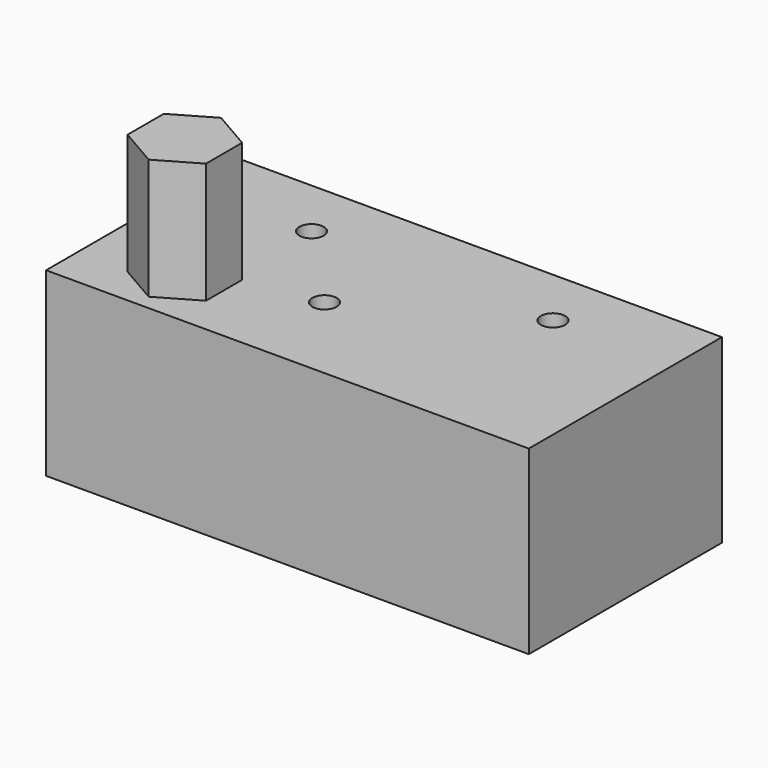
from build123d import *

# Parameters (mm, degrees)
F0_W     = 101.6
F0_H     = 50.8
F1_DEPTH = 38.1
F3_D     = 5.1054
F3_DEPTH = 16.51
F3_TIP   = 1.5338169022
F5_DEPTH = 25.4


with BuildPart() as f1:
    # F0 (on Top) → F1 (new body)
    with BuildSketch(Plane.XY):
        with Locations((50.8, -25.4)):
            Rectangle(F0_W, F0_H)
    extrude(amount=F1_DEPTH)

    # F3
    with Locations(Plane.XY.offset(38.1)):
        with Locations((25.4, -12.7), (42.8625, -31.1450831863), (76.2, -12.7)):
            Hole(F3_D / 2, depth=F3_DEPTH)
            with Locations((0, 0, -(F3_DEPTH + F3_TIP / 2))):  # 118° drill point
                Cone(0, F3_D / 2, F3_TIP, mode=Mode.SUBTRACT)

    # F4 (on face) → F5 (join)
    with BuildSketch(Plane.XY.offset(38.1)):
        Polygon((19.05, -47.625), (27.298891971, -42.8625), (27.298891971, -33.3375), (19.05, -28.575), (10.801108029, -33.3375), (10.801108029, -42.8625), align=None)
    extrude(amount=F5_DEPTH)


solid = f1.part
